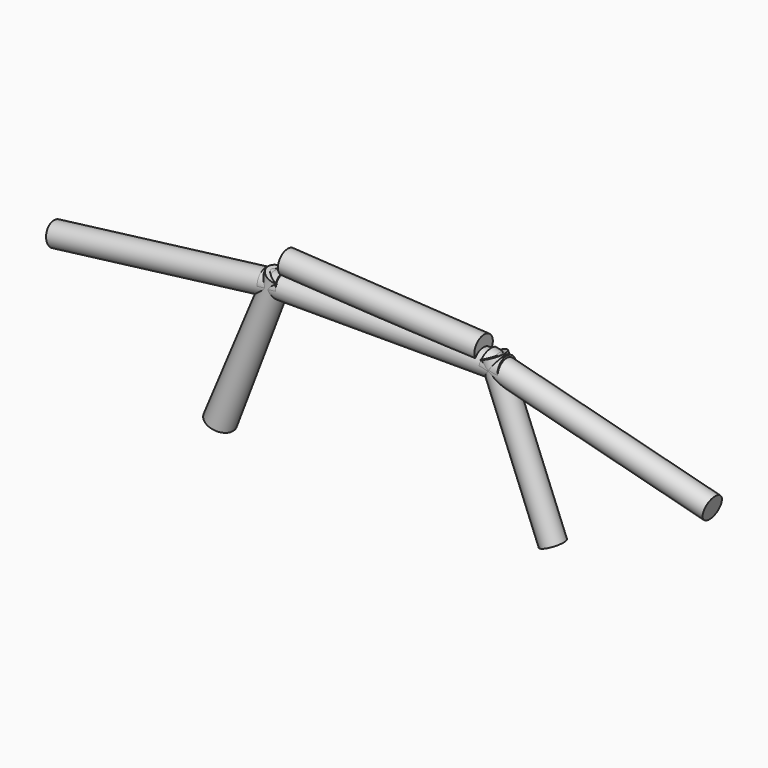
from build123d import *

# Parameters (mm, degrees)
F3_R  = 127
F4_R  = 127
F8_R  = 152.4
F9_R  = 127
F14_R = 127
F13_R = 127
F18_R = 127
F19_R = 127
F24_R = 127
F23_R = 127
F28_R = 127
F29_R = 127


with BuildPart() as f5:
    # F3 (on face) → F5 section 0
    with BuildSketch(Plane(origin=(-3619.424999, 0, -456.004687), x_dir=(0, -1, 0), z_dir=(-0.992157, 0, -0.125))):
        with Locations((0, 152.4)):
            Circle(F3_R)
    # F4 (on face) → F5 section 1
    with BuildSketch(Plane(origin=(-1099.346875, 0, -138.504687), x_dir=(0, -1, 0), z_dir=(-0.992157, 0, -0.125))):
        with Locations((0, 152.4)):
            Circle(F4_R)
    loft()


with BuildPart() as f10:
    # F8 (on face) → F10 section 0
    with BuildSketch(Plane(origin=(-777.765517, 0, -1944.413793), x_dir=(0.928477, 0, -0.371391), z_dir=(-0.371391, 0, -0.928477))):
        with Locations((-1131.998782, 0)):
            Circle(F8_R)
    # F9 (on face) → F10 section 1
    with BuildSketch(Plane(origin=(-130.432225, 0, -326.080561), x_dir=(0.928477, 0, -0.371391), z_dir=(-0.371391, 0, -0.928477))):
        with Locations((-1131.998782, 0)):
            Circle(F9_R)
    loft()


with BuildPart() as f15:
    # F14 (on face) → F15 section 0
    with BuildSketch(Plane.YZ.offset(1320.8)):
        Circle(F14_R)
    # F13 (on face) → F15 section 1
    with BuildSketch(Plane.YZ.offset(-1320.8)):
        Circle(F13_R)
    loft()


with BuildPart() as f20:
    # F18 (on face) → F20 section 0
    with BuildSketch(Plane(origin=(3503.970648, 0, -904.721331), x_dir=(0, 1, 0), z_dir=(0.968246, 0, -0.25))):
        with Locations((0, 304.8)):
            Circle(F18_R)
    # F19 (on face) → F20 section 1
    with BuildSketch(Plane(origin=(1044.626223, 0, -269.721331), x_dir=(0, 1, 0), z_dir=(0.968246, 0, -0.25))):
        with Locations((0, 304.8)):
            Circle(F19_R)
    loft()


with BuildPart() as f25:
    # F24 (on face) → F25 section 0
    with BuildSketch(Plane(origin=(777.765517, 0, -1944.413793), x_dir=(0.928477, 0, 0.371391), z_dir=(0.371391, 0, -0.928477))):
        with Locations((1131.998782, 0)):
            Circle(F24_R)
    # F23 (on face) → F25 section 1
    with BuildSketch(Plane(origin=(130.432225, 0, -326.080561), x_dir=(0.928477, 0, 0.371391), z_dir=(0.371391, 0, -0.928477))):
        with Locations((1131.998782, 0)):
            Circle(F23_R)
    loft()


with BuildPart() as f30:
    # F28 (on face) → F30 section 0
    with BuildSketch(Plane(origin=(1055.676552, 0, -62.098621), x_dir=(0, -1, 0), z_dir=(-0.998274, 0, 0.058722))):
        with Locations((0, 189.425498)):
            Circle(F28_R)
    # F29 (on face) → F30 section 1
    with BuildSketch(Plane(origin=(-1103.323448, 0, 64.901379), x_dir=(0, -1, 0), z_dir=(-0.998274, 0, 0.058722))):
        with Locations((0, 189.425498)):
            Circle(F29_R)
    loft()


solid = Compound([f5.part, f10.part, f15.part, f20.part, f25.part, f30.part])
